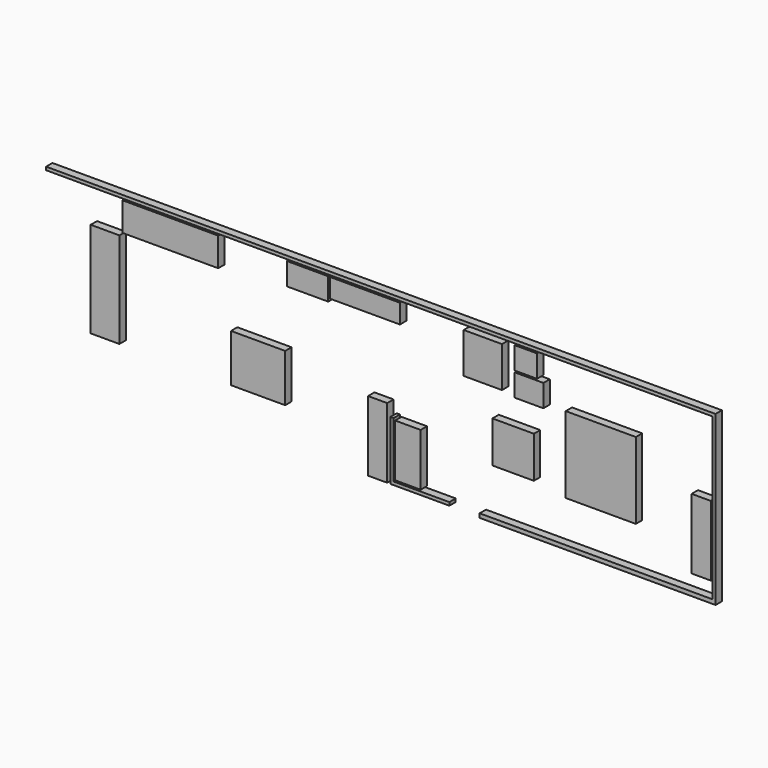
from build123d import *

# Parameters (mm, degrees)
F0_W     = 220
F0_H     = 240
F0_W_2   = 10
F0_H_2   = 505
F0_H_3   = 10
F0_W_3   = 2090
F0_H_4   = 12.703896
F0_W_4   = 730
F0_W_5   = 130
F0_H_5   = 130
F0_W_6   = 120
F0_H_6   = 127
F0_W_7   = 90
F0_H_7   = 70
F0_W_8   = 70
F0_H_8   = 60
F0_H_9   = 175
F0_W_9   = 175
F0_W_10  = 60
F0_H_10  = 220
F0_W_11  = 170
F0_H_11  = 150
F0_W_12  = 300
F0_H_12  = 90
F0_H_13  = 300
F0_W_13  = 80
F0_H_14  = 165
F1_DEPTH = 25


with BuildPart() as f1:
    # F0 (on Front) → F1 (new body)
    with BuildSketch(Plane.XZ):
        with Locations((110, 0)):
            Rectangle(F0_W, F0_H)
        with Locations((465, 2.5)):
            Rectangle(F0_W_2, F0_H_2)
        with Locations((465, 260)):
            Rectangle(F0_W_2, F0_H_3)
        with Locations((-585, 260)):
            Rectangle(F0_W_3, F0_H_3)
        with Locations((465, -256.351948)):
            Rectangle(F0_W_2, F0_H_4)
        with Locations((95, -256.351948)):
            Rectangle(F0_W_4, F0_H_4)
        with Locations((-165, -40)):
            Rectangle(F0_W_5, F0_H_5)
        with Locations((-260, 176.5)):
            Rectangle(F0_W_6, F0_H_6)
        with Locations((-115, 140)):
            Rectangle(F0_W_7, F0_H_7)
        with Locations((-125, 215)):
            Rectangle(F0_W_8, F0_H_7)
        with Locations((-630, 220)):
            Rectangle(F0_W, F0_H_8)
        with Locations((-545, -162.5)):
            Rectangle(F0_W_2, F0_H_9)
        with Locations((-545, -255)):
            Rectangle(F0_W_2, F0_H_3)
        with Locations((-452.5, -255)):
            Rectangle(F0_W_9, F0_H_3)
        with Locations((-590, -150)):
            Rectangle(F0_W_10, F0_H_10)
        with Locations((-965, -75)):
            Rectangle(F0_W_11, F0_H_11)
        with Locations((-1240, 205)):
            Rectangle(F0_W_12, F0_H_12)
        with Locations((-1445, 0)):
            Rectangle(F0_W_7, F0_H_13)
        with Locations((-495, -162.5)):
            Rectangle(F0_W_13, F0_H_14)
        with Locations((-810, 215)):
            Rectangle(F0_W_5, F0_H_7)
        with Locations((425, -90)):
            Rectangle(F0_W_10, F0_H_10)
    extrude(amount=F1_DEPTH)


solid = f1.part
